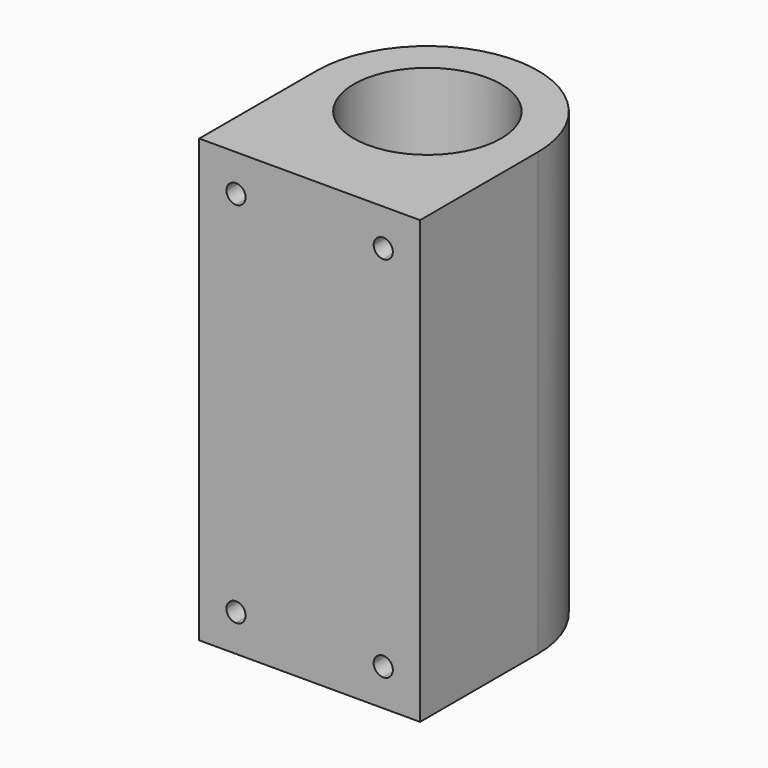
from build123d import *

# Parameters (mm, degrees)
F0_R     = 12.7
F1_DEPTH = 38.1
F3_DEPTH = 12.7


with BuildPart() as f1:
    # F0 (on Top) → F1 (new body, symmetric)
    with BuildSketch(Plane.XY):
        with BuildLine():
            Line((19.05, -25.4), (19.05, 0))
            ThreePointArc((19.05, 0), (0, 19.05), (-19.05, 0))
            Line((-19.05, 0), (-19.05, -25.4))
            Line((-19.05, -25.4), (19.05, -25.4))
        make_face()
        Circle(F0_R, mode=Mode.SUBTRACT)
    extrude(amount=F1_DEPTH, both=True)

    # F2 (on face) → F3 (cut)
    with BuildSketch(Plane.XZ.offset(25.4)):
        with BuildLine():
            ThreePointArc((-12.7, -30.099), (-13.867433, -30.582567), (-14.351, -31.75))
            ThreePointArc((-14.351, -31.75), (-13.867433, -32.917433), (-12.7, -33.401))
            ThreePointArc((-12.7, -33.401), (-11.532567, -32.917433), (-11.049, -31.75))
            ThreePointArc((-11.049, -31.75), (-11.532567, -30.582567), (-12.7, -30.099))
        make_face()
        with BuildLine():
            ThreePointArc((12.7, -30.099), (11.532567, -30.582567), (11.049, -31.75))
            ThreePointArc((11.049, -31.75), (11.532567, -32.917433), (12.7, -33.401))
            ThreePointArc((12.7, -33.401), (13.867433, -32.917433), (14.351, -31.75))
            ThreePointArc((14.351, -31.75), (13.867433, -30.582567), (12.7, -30.099))
        make_face()
        with BuildLine():
            ThreePointArc((-12.7, 33.401), (-13.867433, 32.917433), (-14.351, 31.75))
            ThreePointArc((-14.351, 31.75), (-13.867433, 30.582567), (-12.7, 30.099))
            ThreePointArc((-12.7, 30.099), (-11.532567, 30.582567), (-11.049, 31.75))
            ThreePointArc((-11.049, 31.75), (-11.532567, 32.917433), (-12.7, 33.401))
        make_face()
        with BuildLine():
            ThreePointArc((12.7, 33.401), (11.532567, 32.917433), (11.049, 31.75))
            ThreePointArc((11.049, 31.75), (11.532567, 30.582567), (12.7, 30.099))
            ThreePointArc((12.7, 30.099), (13.867433, 30.582567), (14.351, 31.75))
            ThreePointArc((14.351, 31.75), (13.867433, 32.917433), (12.7, 33.401))
        make_face()
    extrude(amount=-F3_DEPTH, mode=Mode.SUBTRACT)


solid = f1.part
